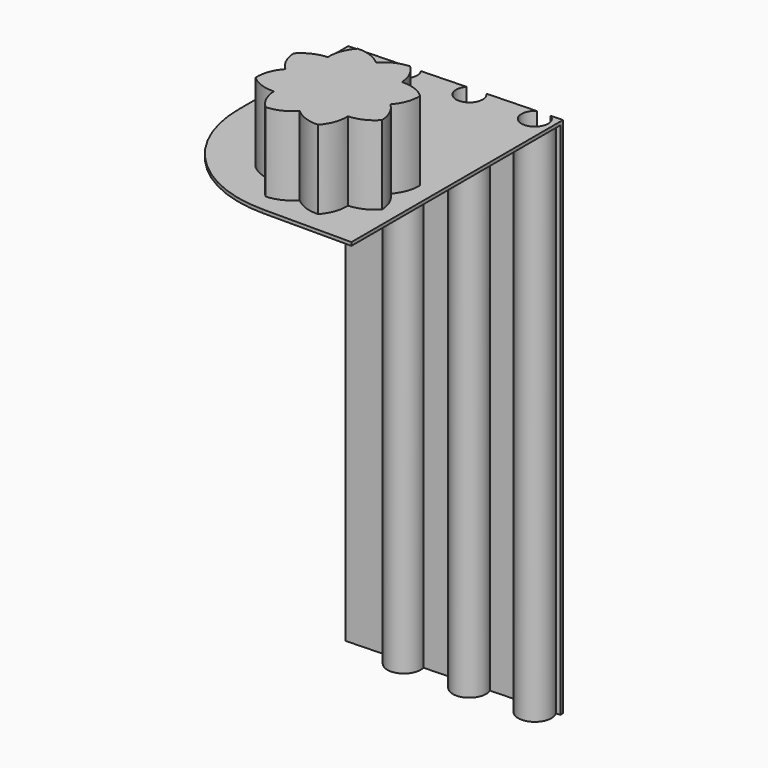
from build123d import *

# Parameters (mm, degrees)
F1_DEPTH      = 228.854
F1_DEPTH_BACK = 170.688
F3_D          = 20.32
F4_R          = 91.9815367264
F5_DEPTH      = 60.198
F6_T          = -2.54


with BuildPart() as f1:
    # F0 (on Top) → F1 (new body, two sides)
    with BuildSketch(Plane.XY) as f1_sk:
        Polygon((-45.7021147013, -62.8560557961), (0, -62.8560557961), (57.0875890553, -62.8560557961), (114.1751781106, -62.8560557961), (114.1751781106, 35.5600006878), (114.1751781106, 126.9761919975), (114.1751781106, 133.9760571718), (114.1751781106, 139.4225805998), (-45.7021147013, 133.9760571718), (-45.7021147013, 35.5600006878), align=None)
    extrude(amount=-F1_DEPTH)
    extrude(f1_sk.sketch, amount=F1_DEPTH_BACK)

    # F3 (through all)
    with Locations(Plane.XY.offset(170.688)):
        with Locations((0, 130.152374506), (50.038, 130.152374506), (100.076, 130.152374506)):
            Hole(F3_D / 2)

    # F4
    f4_edges = [f1.edges().sort_by_distance(p)[0] for p in [
        (-45.702115, -62.856056, -29.083),
    ]]
    fillet(f4_edges, radius=F4_R)

    # F2 (on face) → F5 (join)
    with BuildSketch(Plane.XY.offset(170.688)):
        with BuildLine():
            ThreePointArc((52.7370204776, 37.4581152183), (43.5895428052, 42.9803944735), (33.0250906296, 44.5817270971))
            ThreePointArc((33.0250906296, 44.5817270971), (27.5028113743, 35.4342494247), (25.9014787508, 24.8697972491))
            ThreePointArc((25.9014787508, 24.8697972491), (15.5283941488, 22.3063948652), (6.9258852189, 15.9685122494))
            ThreePointArc((6.9258852189, 15.9685122494), (9.4892876028, 5.5954276475), (15.8271702186, -3.0070812824))
            ThreePointArc((15.8271702186, -3.0070812824), (10.3048909633, -12.1545589549), (8.7035583398, -22.7190111304))
            ThreePointArc((8.7035583398, -22.7190111304), (17.8510360122, -28.2412903857), (28.4154881878, -29.8426230093))
            ThreePointArc((28.4154881878, -29.8426230093), (30.9788905717, -40.2157076112), (37.3167731875, -48.8182165411))
            ThreePointArc((37.3167731875, -48.8182165411), (47.6898577894, -46.2548141572), (56.2923667193, -39.9169315414))
            ThreePointArc((56.2923667193, -39.9169315414), (65.4398443918, -45.4392107967), (76.0042965673, -47.0405434203))
            ThreePointArc((76.0042965673, -47.0405434203), (81.5265758226, -37.8930657478), (83.1279084462, -27.3286135723))
            ThreePointArc((83.1279084462, -27.3286135723), (93.5009930481, -24.7652111884), (102.103501978, -18.4273285726))
            ThreePointArc((102.103501978, -18.4273285726), (99.5400995941, -8.0542439706), (93.2022169783, 0.5482649593))
            ThreePointArc((93.2022169783, 0.5482649593), (98.7244962336, 9.6957426317), (100.3258288572, 20.2601948073))
            ThreePointArc((100.3258288572, 20.2601948073), (91.1783511847, 25.7824740625), (80.6138990092, 27.3838066861))
            ThreePointArc((80.6138990092, 27.3838066861), (78.0504966252, 37.7568912881), (71.7126140095, 46.359400218))
            ThreePointArc((71.7126140095, 46.359400218), (61.3395294075, 43.795997834), (52.7370204776, 37.4581152183))
        make_face()
    extrude(amount=F5_DEPTH)

    # F6
    f6_openings = [f1.faces().sort_by_distance(p)[0] for p in [
        (-18.761346, -35.915287, -29.083),
        (-45.702115, 81.550769, -29.083),
        (37.767676, 39.089228, -228.854),
        (114.175178, 38.283262, -29.083),
        (80.2273, -62.856056, -29.083),
    ]]
    offset(amount=F6_T, openings=f6_openings, kind=Kind.INTERSECTION)


solid = f1.part
